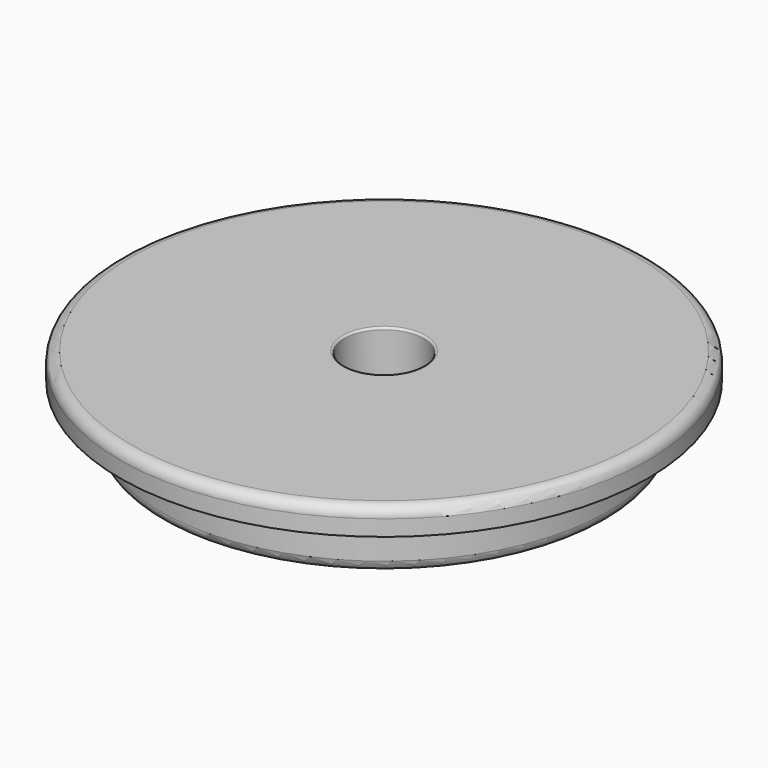
from build123d import *

# Parameters (mm, degrees)
F0_R     = 26.924
F1_DEPTH = 6.35
F2_R     = 31.75
F2_R_2   = 26.924
F3_DEPTH = 3.175
F4_R     = 4.762257
F5_DEPTH = 25.4
F6_R     = 1.27
F7_R     = 1.27
F8_R     = 0.254


with BuildPart() as f1:
    # F0 (on Top) → F1 (new body)
    with BuildSketch(Plane.XY):
        Circle(F0_R)
    extrude(amount=F1_DEPTH)

    # F2 (on face) → F3 (join)
    with BuildSketch(Plane.XY.offset(6.35)):
        Circle(F2_R)
        Circle(F2_R_2, mode=Mode.SUBTRACT)
        Circle(F2_R_2)
    extrude(amount=F3_DEPTH)

    # F4 (on face) → F5 (cut)
    with BuildSketch(Plane.XY.offset(9.525)):
        Circle(F4_R)
    extrude(amount=-F5_DEPTH, mode=Mode.SUBTRACT)

    # F6
    f6_edges = [f1.edges().sort_by_distance(p)[0] for p in [
        (-31.75, 0, 9.525),
    ]]
    fillet(f6_edges, radius=F6_R)

    # F7
    f7_edges = [f1.edges().sort_by_distance(p)[0] for p in [
        (-26.924, 0, 0),
    ]]
    fillet(f7_edges, radius=F7_R)

    # F8
    f8_edges = [f1.edges().sort_by_distance(p)[0] for p in [
        (-4.762257, 0, 9.525),
        (-25.654, 0, 0),
        (-4.762257, 0, 0),
    ]]
    fillet(f8_edges, radius=F8_R)


solid = f1.part
